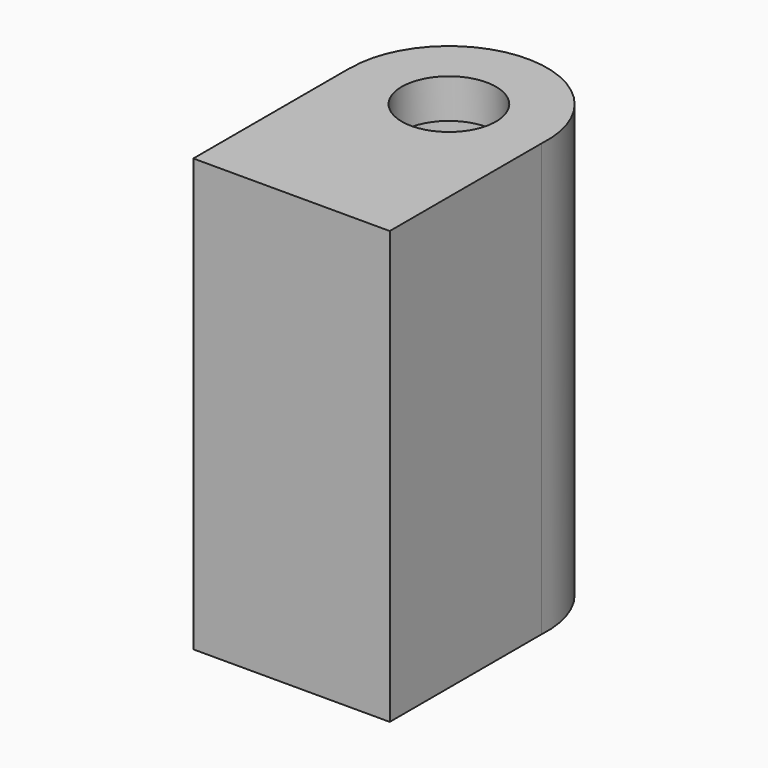
from build123d import *

# Parameters (mm, degrees)
F4_R     = 12.5
F0_DEPTH = 55
F1_W     = 25
F1_H     = 25
F5_DEPTH = 55
F2_D     = 12
F7_R     = 10.5
F3_DEPTH = 50


with BuildPart() as f0:
    # F4 (on Top) → F0 (new body)
    with BuildSketch(Plane.XY):
        Circle(F4_R)
    extrude(amount=F0_DEPTH)

    # F1 (on Top) → F5 (join)
    with BuildSketch(Plane.XY):
        with Locations((-0.028275, -12.5)):
            Rectangle(F1_W, F1_H)
    extrude(amount=F5_DEPTH)

    # F2 (through all)
    with Locations(Plane(origin=(0, 0, 0), x_dir=(1, 0, 0), z_dir=(0, 0, -1))):
        with Locations((0, 0)):
            Hole(F2_D / 2)

    # F7 (on Top) → F3 (cut)
    with BuildSketch(Plane.XY):
        Circle(F7_R)
    extrude(amount=F3_DEPTH, mode=Mode.SUBTRACT)


solid = f0.part
